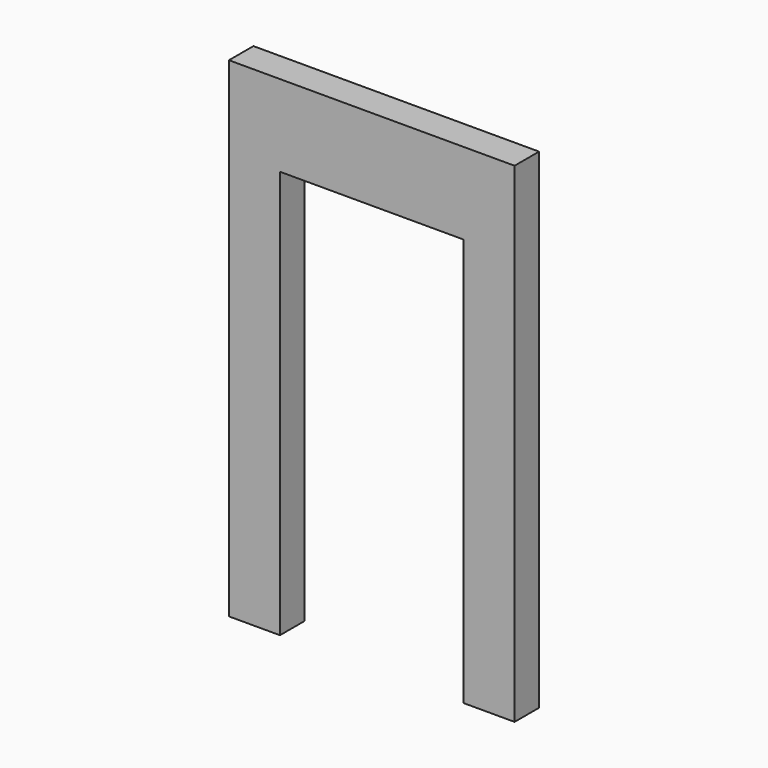
from build123d import *

# Parameters (mm, degrees)
F0_W     = 1422.5016
F0_H     = 152.4
F1_DEPTH = 2438.4
F2_W     = 914.4
F2_H     = 2032.1016
F3_DEPTH = 152.401


with BuildPart() as f1:
    # F0 (on Top) → F1 (new body)
    with BuildSketch(Plane.XY):
        with Locations((711.2508, 76.2)):
            Rectangle(F0_W, F0_H)
    extrude(amount=F1_DEPTH)

    # F2 (on face) → F3 (cut, through all)
    with BuildSketch(Plane.XZ):
        with Locations((711.2508, 1016.0508)):
            Rectangle(F2_W, F2_H)
    extrude(amount=-F3_DEPTH, mode=Mode.SUBTRACT)


solid = f1.part
